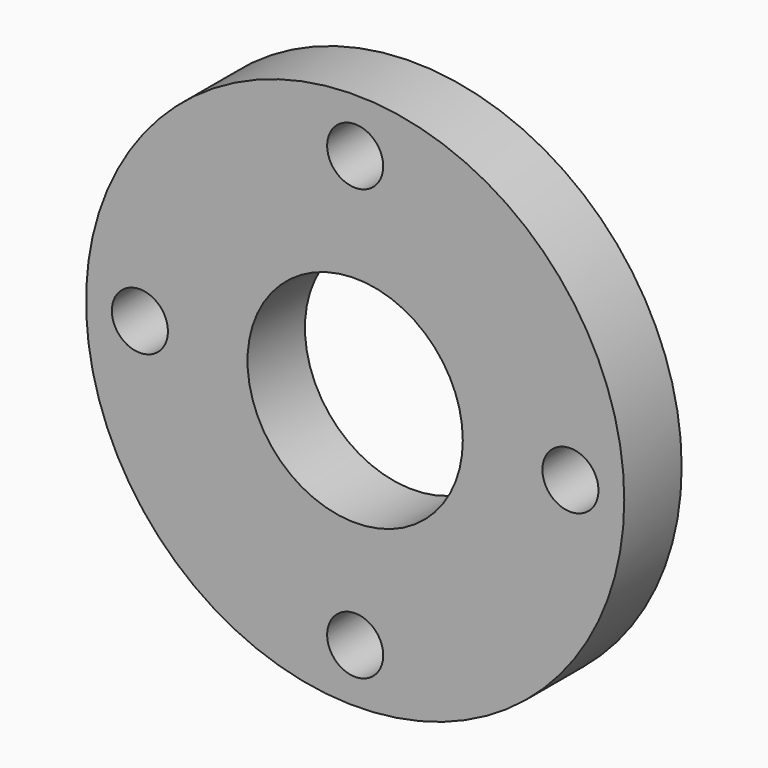
from build123d import *

# Parameters (mm, degrees)
F0_R     = 95.25
F0_R_2   = 38.1
F1_DEPTH = 25.4
F2_D     = 19.84248


with BuildPart() as f1:
    # F0 (on Front) → F1 (new body)
    with BuildSketch(Plane.XZ):
        Circle(F0_R)
        Circle(F0_R_2, mode=Mode.SUBTRACT)
    extrude(amount=F1_DEPTH)

    # F2 (through all)
    with Locations(Plane(origin=(0, 0, 0), x_dir=(1, 0, 0), z_dir=(0, 1, 0))):
        with Locations((-76.2, 0), (0, -76.2), (76.2, 0), (0, 76.2)):
            Hole(F2_D / 2)


solid = f1.part
